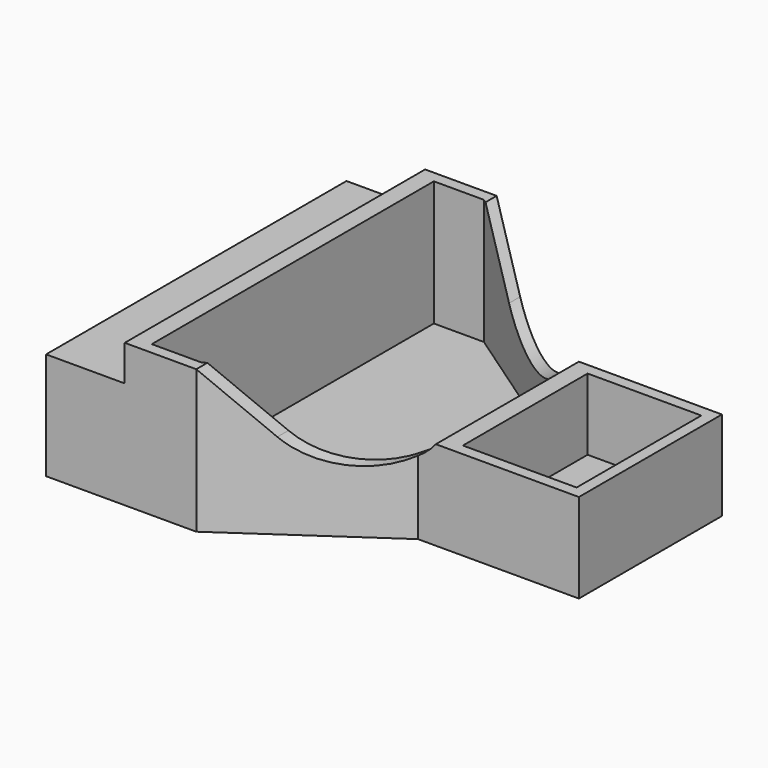
from build123d import *

# Parameters (mm, degrees)
F0_W      = 13.843
F0_H      = 10.0965
F1_DEPTH  = 12.7
F3_DEPTH  = 1.5875
F5_DEPTH  = 33.3385
F6_W      = 33.3375
F6_H      = 9.525
F7_DEPTH  = 6.985
F9_ANGLE  = -90
F11_ANGLE = -90


with BuildPart() as f1:
    # F0 (on Front) → F1 (new body)
    with BuildSketch(Plane.XZ):
        Polygon((7.9375, 33.3375), (-7.9375, 33.3375), (-7.9375, 19.05), (-16.66875, 6.35), (-16.66875, 0), (16.66875, 0), (16.66875, 6.35), (7.9375, 19.05), align=None)
        Polygon((15.65275, 6.0344407596), (15.65275, 1.5875), (-15.65275, 1.5875), (-15.65275, 6.0344407596), (-6.9215, 18.7344407596), (-6.9215, 20.6375), (6.9215, 20.6375), (6.9215, 18.7344407596), align=None, mode=Mode.SUBTRACT)
        with Locations((0, 27.27325)):
            Rectangle(F0_W, F0_H, mode=Mode.SUBTRACT)
    extrude(amount=F1_DEPTH)

    # F2 (on Front) → F3 (join)
    with BuildSketch(Plane.XZ):
        Polygon((7.9375, 33.3375), (-7.9375, 33.3375), (-7.9375, 19.05), (-16.66875, 6.35), (-16.66875, 0), (16.66875, 0), (16.66875, 6.35), (7.9375, 19.05), align=None)
    extrude(amount=F3_DEPTH)

    # F4 (on face) → F5 (cut, through all)
    with BuildSketch(Plane.YZ.offset(16.66875)):
        with BuildLine():
            Line((-12.7, 33.3375), (-12.7, 6.35))
            Line((-12.7, 6.35), (-7.6210542824, 10.9944259619))
            ThreePointArc((-7.6210542824, 10.9944259619), (-5.559666336, 15.8888014069), (-7.9375, 20.6375))
            Line((-7.9375, 20.6375), (-7.9375, 33.3375))
            Line((-7.9375, 33.3375), (-12.7, 33.3375))
        make_face()
    extrude(amount=-F5_DEPTH, mode=Mode.SUBTRACT)

    # F6 (on face) → F7 (join)
    with BuildSketch(Plane(origin=(0, 0, 0), x_dir=(1, 0, 0), z_dir=(0, 0, -1))):
        with Locations((0, 4.7625)):
            Rectangle(F6_W, F6_H)
    extrude(amount=F7_DEPTH)


with BuildPart() as f1_1:
    # F9: moved
    add(f1.part.rotate(Axis((0, 0, -6.985), (1, 0, 0)), F9_ANGLE))


with BuildPart() as f1_2:
    # F11: moved
    add(f1_1.part.rotate(Axis((0, 0, -2.2225), (0, 0, 1)), F11_ANGLE))


with BuildPart() as f1_3:
    # F12: moved
    add(f1_2.part.moved(Location((0, 0, -5.715))))


solid = f1_3.part
